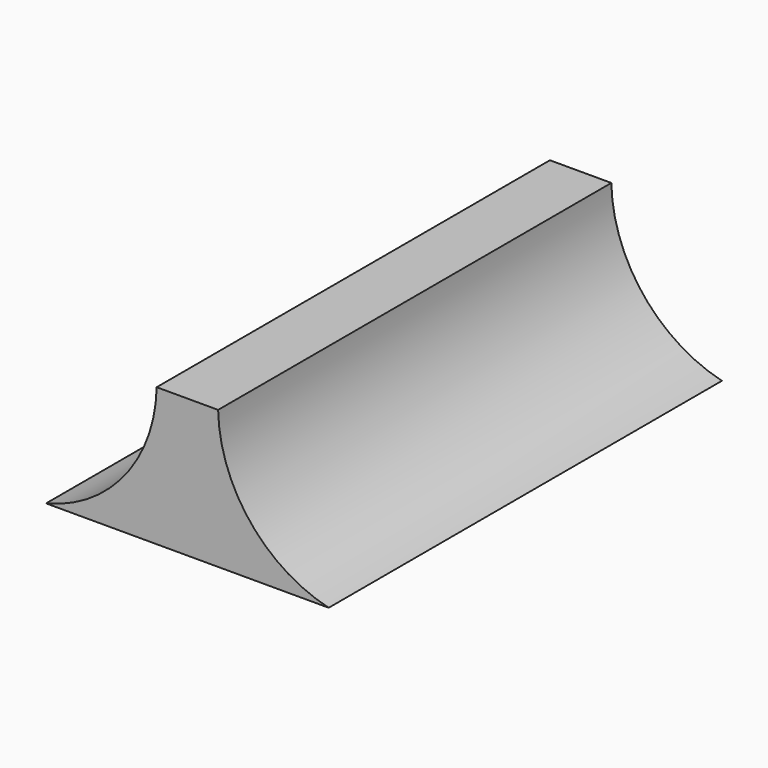
from build123d import *

# Parameters (mm, degrees)
F1_DEPTH = 80


with BuildPart() as f1:
    # F0 (on Front) → F1 (new body)
    with BuildSketch(Plane.XZ):
        with BuildLine():
            Line((0, -2.5), (0, -25))
            Line((0, -25), (23, -25))
            ThreePointArc((23, -25), (10.185403, -16.801677), (5, -2.5))
            Line((5, -2.5), (0, -2.5))
        make_face()
    extrude(amount=F1_DEPTH)

    # F2: F1 across plane


with BuildPart() as f1_1:
    add(f1.part)
    add(f1.part.mirror(Plane.YZ))


solid = f1_1.part
